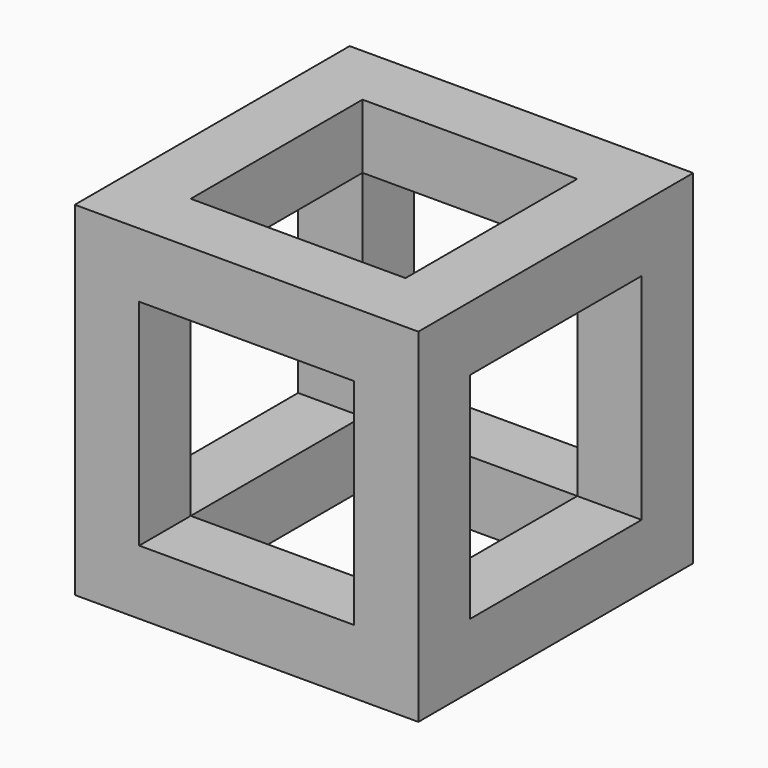
from build123d import *

# Parameters (mm, degrees)
F0_W     = 16
F0_H     = 16
F0_W_2   = 10
F0_H_2   = 10
F1_DEPTH = 16
F2_W     = 10
F2_H     = 10
F3_DEPTH = 25
F4_W     = 10
F4_H     = 10
F5_DEPTH = 25


with BuildPart() as f1:
    # F0 (on Top) → F1 (new body)
    with BuildSketch(Plane.XY):
        with Locations((8, 8)):
            Rectangle(F0_W, F0_H)
        with Locations((8, 8)):
            Rectangle(F0_W_2, F0_H_2, mode=Mode.SUBTRACT)
    extrude(amount=F1_DEPTH)

    # F2 (on face) → F3 (cut)
    with BuildSketch(Plane.XZ):
        with Locations((8, 8)):
            Rectangle(F2_W, F2_H)
    extrude(amount=-F3_DEPTH, mode=Mode.SUBTRACT)

    # F4 (on face) → F5 (cut)
    with BuildSketch(Plane.YZ.offset(16)):
        with Locations((8, 8)):
            Rectangle(F4_W, F4_H)
    extrude(amount=-F5_DEPTH, mode=Mode.SUBTRACT)


solid = f1.part
